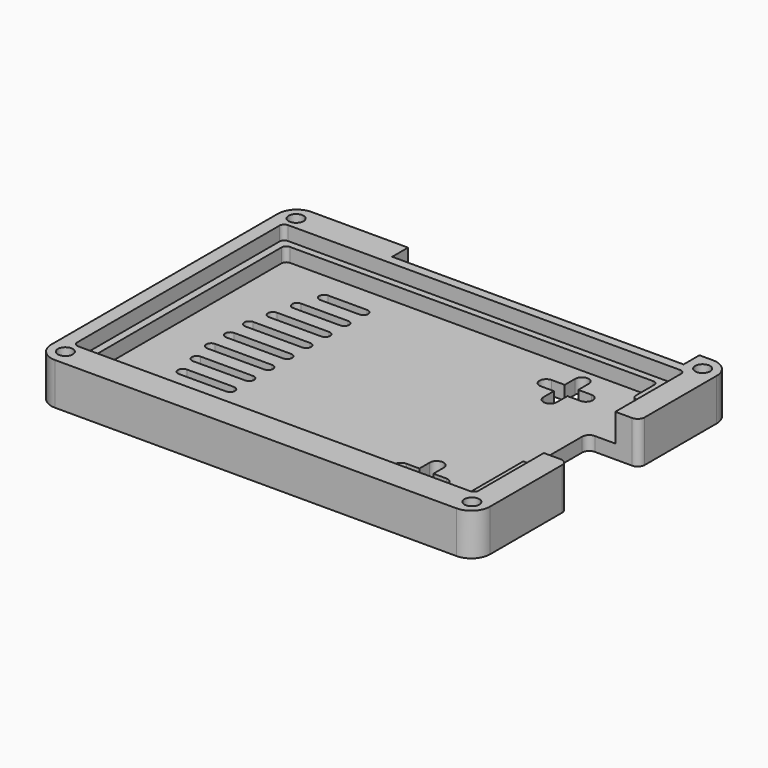
from build123d import *

# Parameters (mm, degrees)
SKETCH_R        = 1.6
PAD_DEPTH       = 9
SKETCH001_W     = 62.43
SKETCH001_H     = 4.25
POCKET_DEPTH    = 6
POCKET001_DEPTH = 3
FILLET_R        = 4


with BuildPart() as part:
    # Sketch → Pad (new body)
    with BuildSketch(Plane.XY):
        with BuildLine():
            Line((0, 0), (94, 0))
            Line((94, 0), (94, 23.275))
            ThreePointArc((94, 23.275), (93.56066, 24.33566), (92.5, 24.775))
            Line((92.5, 24.775), (84.5, 24.775))
            ThreePointArc((83, 26.275), (83.43934, 25.21434), (84.5, 24.775))
            Line((83, 26.275), (83, 42.425))
            ThreePointArc((84.5, 43.925), (83.43934, 43.48566), (83, 42.425))
            Line((84.5, 43.925), (92.5, 43.925))
            ThreePointArc((92.5, 43.925), (93.56066, 44.36434), (94, 45.425))
            Line((94, 45.425), (94, 68.7))
            Line((94, 68.7), (0, 68.7))
            Line((0, 68.7), (0, 0))
        make_face()
        with Locations((3.45, 65.25)):
            Circle(SKETCH_R, mode=Mode.SUBTRACT)
        with Locations((90.55, 65.25)):
            Circle(SKETCH_R, mode=Mode.SUBTRACT)
        with Locations((90.55, 3.45)):
            Circle(SKETCH_R, mode=Mode.SUBTRACT)
        with Locations((3.45, 3.45)):
            Circle(SKETCH_R, mode=Mode.SUBTRACT)
        with BuildLine():
            ThreePointArc((68.95, 10.65), (70.45, 9.15), (71.95, 10.65))
            Line((71.95, 13.4), (71.95, 10.65))
            Line((74.7, 13.4), (71.95, 13.4))
            ThreePointArc((74.7, 13.4), (76.2, 14.9), (74.7, 16.4))
            Line((71.95, 16.4), (74.7, 16.4))
            Line((71.95, 19.15), (71.95, 16.4))
            ThreePointArc((71.95, 19.15), (70.45, 20.65), (68.95, 19.15))
            Line((68.95, 16.4), (68.95, 19.15))
            Line((66.2, 16.4), (68.95, 16.4))
            ThreePointArc((66.2, 16.4), (64.7, 14.9), (66.2, 13.4))
            Line((68.95, 13.4), (66.2, 13.4))
            Line((68.95, 10.65), (68.95, 13.4))
        make_face(mode=Mode.SUBTRACT)
        with BuildLine():
            ThreePointArc((69, 49.55), (70.45, 48.1), (71.9, 49.55))
            Line((71.9, 52.35), (71.9, 49.55))
            Line((74.7, 52.35), (71.9, 52.35))
            ThreePointArc((74.7, 52.35), (76.15, 53.8), (74.7, 55.25))
            Line((71.9, 55.25), (74.7, 55.25))
            Line((71.9, 58.05), (71.9, 55.25))
            ThreePointArc((71.9, 58.05), (70.45, 59.5), (69, 58.05))
            Line((69, 55.25), (69, 58.05))
            Line((66.2, 55.25), (69, 55.25))
            ThreePointArc((66.2, 55.25), (64.75, 53.8), (66.2, 52.35))
            Line((69, 52.35), (66.2, 52.35))
            Line((69, 49.55), (69, 52.35))
        make_face(mode=Mode.SUBTRACT)
        with BuildLine():
            ThreePointArc((14.05, 30.3), (13, 29.25), (14.05, 28.2))
            Line((14.05, 28.2), (26.25, 28.2))
            ThreePointArc((26.25, 28.2), (27.3, 29.25), (26.25, 30.3))
            Line((14.05, 30.3), (26.25, 30.3))
        make_face(mode=Mode.SUBTRACT)
        with BuildLine():
            ThreePointArc((14.05, 35.4), (13, 34.35), (14.05, 33.3))
            Line((14.05, 33.3), (26.25, 33.3))
            ThreePointArc((26.25, 33.3), (27.3, 34.35), (26.25, 35.4))
            Line((14.05, 35.4), (26.25, 35.4))
        make_face(mode=Mode.SUBTRACT)
        with BuildLine():
            ThreePointArc((15.05, 25.2), (14, 24.15), (15.05, 23.1))
            Line((15.05, 23.1), (26.25, 23.1))
            ThreePointArc((26.25, 23.1), (27.3, 24.15), (26.25, 25.2))
            Line((15.05, 25.2), (26.25, 25.2))
        make_face(mode=Mode.SUBTRACT)
        with BuildLine():
            ThreePointArc((16.15, 20.1), (15.1, 19.05), (16.15, 18))
            Line((16.15, 18), (26.25, 18))
            ThreePointArc((26.25, 18), (27.3, 19.05), (26.25, 20.1))
            Line((16.15, 20.1), (26.25, 20.1))
        make_face(mode=Mode.SUBTRACT)
        with BuildLine():
            ThreePointArc((17.85, 15), (16.8, 13.95), (17.85, 12.9))
            Line((17.85, 12.9), (26.25, 12.9))
            ThreePointArc((26.25, 12.9), (27.3, 13.95), (26.25, 15))
            Line((17.85, 15), (26.25, 15))
        make_face(mode=Mode.SUBTRACT)
        with BuildLine():
            ThreePointArc((14.05, 40.5), (13, 39.45), (14.05, 38.4))
            Line((14.05, 38.4), (26.25, 38.4))
            ThreePointArc((26.25, 38.4), (27.3, 39.45), (26.25, 40.5))
            Line((14.05, 40.5), (26.25, 40.5))
        make_face(mode=Mode.SUBTRACT)
        with BuildLine():
            ThreePointArc((15.05, 45.6), (14, 44.55), (15.05, 43.5))
            Line((15.05, 43.5), (26.25, 43.5))
            ThreePointArc((26.25, 43.5), (27.3, 44.55), (26.25, 45.6))
            Line((15.05, 45.6), (26.25, 45.6))
        make_face(mode=Mode.SUBTRACT)
        with BuildLine():
            ThreePointArc((16.15, 50.7), (15.1, 49.65), (16.15, 48.6))
            Line((16.15, 48.6), (26.25, 48.6))
            ThreePointArc((26.25, 48.6), (27.3, 49.65), (26.25, 50.7))
            Line((16.15, 50.7), (26.25, 50.7))
        make_face(mode=Mode.SUBTRACT)
        with BuildLine():
            ThreePointArc((17.85, 55.8), (16.8, 54.75), (17.85, 53.7))
            Line((17.85, 53.7), (26.25, 53.7))
            ThreePointArc((26.25, 53.7), (27.3, 54.75), (26.25, 55.8))
            Line((17.85, 55.8), (26.25, 55.8))
        make_face(mode=Mode.SUBTRACT)
        with BuildLine():
            ThreePointArc((30.35, 15), (29.3, 13.95), (30.35, 12.9))
            Line((30.35, 12.9), (33.25, 12.9))
            ThreePointArc((33.25, 12.9), (34.3, 13.95), (33.25, 15))
            Line((30.35, 15), (33.25, 15))
        make_face(mode=Mode.SUBTRACT)
    extrude(amount=PAD_DEPTH)

    # Sketch001 (on Face82 of Pad) → Pocket (cut)
    with BuildSketch(Plane.XY.offset(9)):
        with Locations((55.885, 66.575)):
            Rectangle(SKETCH001_W, SKETCH001_H)
        with BuildLine():
            Line((4.5, 60.05), (4.5, 8.1))
            ThreePointArc((4.5, 8.1), (4.792893, 7.392893), (5.5, 7.1))
            Line((5.5, 7.1), (83.5, 7.1))
            ThreePointArc((83.5, 7.1), (84.207107, 7.392893), (84.5, 8.1))
            Line((84.5, 8.1), (84.5, 24.775))
            Line((84.5, 24.775), (84.5, 43.925))
            Line((84.5, 43.925), (88.9, 43.925))
            Line((88.9, 43.925), (88.9, 53.15))
            ThreePointArc((88.9, 53.15), (88.607107, 53.857107), (87.9, 54.15))
            Line((87.9, 54.15), (85.3, 54.15))
            ThreePointArc((84.3, 55.15), (84.592893, 54.442893), (85.3, 54.15))
            Line((84.3, 55.15), (84.3, 60.05))
            ThreePointArc((84.3, 60.05), (84.007107, 60.757107), (83.3, 61.05))
            Line((83.3, 61.05), (5.5, 61.05))
            ThreePointArc((5.5, 61.05), (4.792893, 60.757107), (4.5, 60.05))
        make_face()
    extrude(amount=-POCKET_DEPTH, mode=Mode.SUBTRACT)

    # Sketch002 (on Face4 of Pocket) → Pocket001 (cut)
    with BuildSketch(Plane.XY.offset(9)):
        with BuildLine():
            Line((88.9, 7.29), (88.9, 61.52))
            ThreePointArc((88.9, 61.52), (88.607107, 62.227107), (87.9, 62.52))
            Line((87.9, 62.52), (3.9, 62.52))
            ThreePointArc((3.9, 62.52), (3.192893, 62.227107), (2.9, 61.52))
            Line((2.9, 61.52), (2.9, 7.29))
            ThreePointArc((2.9, 7.29), (3.192893, 6.582893), (3.9, 6.29))
            Line((3.9, 6.29), (87.9, 6.29))
            ThreePointArc((87.9, 6.29), (88.607107, 6.582893), (88.9, 7.29))
        make_face()
    extrude(amount=-POCKET001_DEPTH, mode=Mode.SUBTRACT)

    # Fillet
    fillet_edges = [part.edges().sort_by_distance(p)[0] for p in [
        (94, 68.7, 4.5),
        (94, 0, 4.5),
        (0, 0, 4.5),
        (0, 68.7, 4.5),
    ]]
    fillet(fillet_edges, radius=FILLET_R)


solid = part.part
